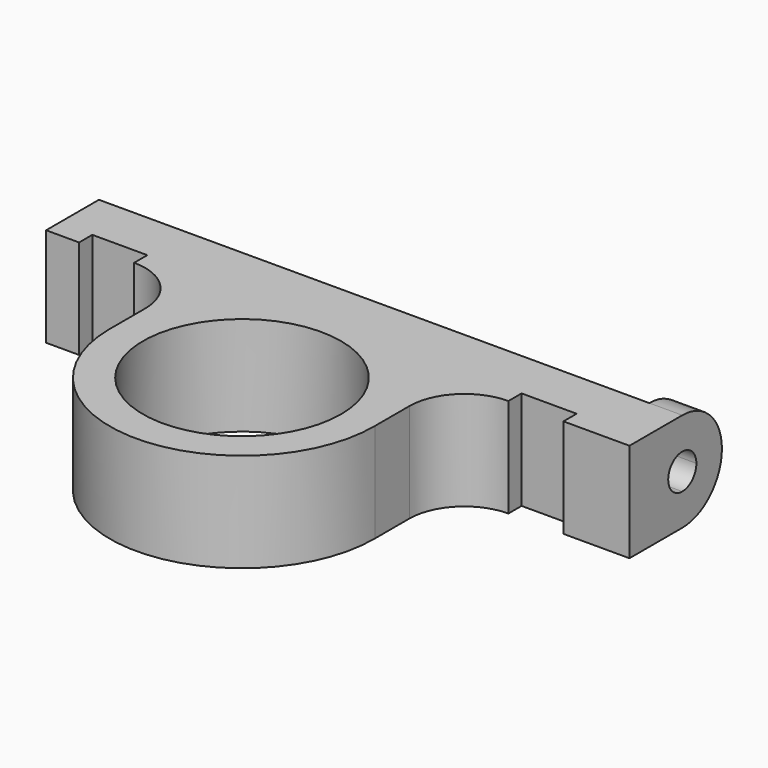
from build123d import *

# Parameters (mm, degrees)
F0_R     = 9
F1_DEPTH = 9
F3_DEPTH = 50
F5_DEPTH = 3
F6_W     = 5
F6_H     = 1.5
F7_DEPTH = 25


with BuildPart() as f1:
    # F0 (on Top) → F1 (new body)
    with BuildSketch(Plane.XY):
        with BuildLine():
            Line((50, 0), (0, 0))
            Line((0, 0), (0, -6))
            Line((0, -6), (8.0002032363, -6))
            ThreePointArc((8.0002032363, -6), (11.5357371422, -7.4644660941), (13.0002032363, -11))
            Line((13.0002032363, -11), (13.0002032363, -14.9301599718))
            Line((13.0002032363, -14.9301599718), (13.0002032363, -15.0698400282))
            ThreePointArc((13.0002032363, -15.0698400282), (25.08937552, -26.9996671627), (36.9995057583, -14.8910892252))
            Line((36.9995057583, -14.8910892252), (36.9995057583, -11))
            ThreePointArc((36.9995057583, -11), (38.4639718524, -7.4644660941), (41.9995057583, -6))
            Line((41.9995057583, -6), (50, -6))
            Line((50, -6), (50, 0))
        make_face()
        with Locations((25, -15)):
            Circle(F0_R, mode=Mode.SUBTRACT)
    extrude(amount=F1_DEPTH)

    # F2 (on face) → F3 (cut)
    with BuildSketch(Plane.YZ.offset(50)):
        with BuildLine():
            Line((0, 1.375), (0, 7.625))
            ThreePointArc((0, 7.625), (-3.125, 4.5), (0, 1.375))
        make_face()
    extrude(amount=-F3_DEPTH, mode=Mode.SUBTRACT)

    # F4 (on face) → F5 (join)
    with BuildSketch(Plane.YZ.offset(50)):
        with BuildLine():
            Line((0, 1.375), (0, 0))
            ThreePointArc((0, 0), (4.5, 4.5), (0, 9))
            Line((0, 9), (0, 7.625))
            ThreePointArc((0, 7.625), (-3.125, 4.5), (0, 1.375))
        make_face()
        with BuildLine():
            ThreePointArc((0, 6.1), (1.1313708499, 5.6313708499), (1.6, 4.5))
            ThreePointArc((1.6, 4.5), (1.1313708499, 3.3686291501), (0, 2.9))
            ThreePointArc((0, 2.9), (-1.6, 4.5), (0, 6.1))
        make_face(mode=Mode.SUBTRACT)
        with BuildLine():
            Line((-6, 0), (0, 0))
            Line((0, 0), (0, 1.375))
            ThreePointArc((0, 1.375), (-3.125, 4.5), (0, 7.625))
            Line((0, 7.625), (0, 9))
            Line((0, 9), (-6, 9))
            Line((-6, 9), (-6, 0))
        make_face()
    extrude(amount=F5_DEPTH)

    # F6 (on face) → F7 (cut)
    with BuildSketch(Plane.XY.offset(9)):
        with Locations((5.5, -5.25)):
            Rectangle(F6_W, F6_H)
        with Locations((44.5, -5.25)):
            Rectangle(F6_W, F6_H)
    extrude(amount=-F7_DEPTH, mode=Mode.SUBTRACT)


solid = f1.part
